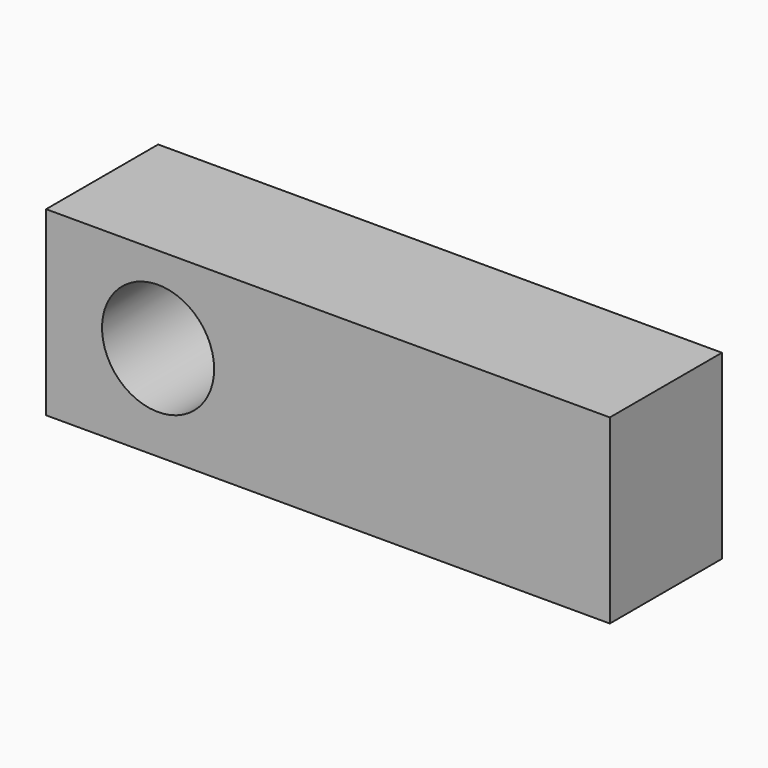
from build123d import *

# Parameters (mm, degrees)
F0_W     = 100.583534
F0_H     = 32.377075
F1_DEPTH = 25
F2_R     = 10
F3_DEPTH = 38.7


with BuildPart() as f1:
    # F0 (on Front) → F1 (new body)
    with BuildSketch(Plane.XZ):
        with Locations((-2e-06, 16.188537)):
            Rectangle(F0_W, F0_H)
    extrude(amount=F1_DEPTH)

    # F2 (on face) → F3 (cut)
    with BuildSketch(Plane.XZ.offset(25)):
        with Locations((-30.308238, 17)):
            Circle(F2_R)
    extrude(amount=-F3_DEPTH, mode=Mode.SUBTRACT)


solid = f1.part
